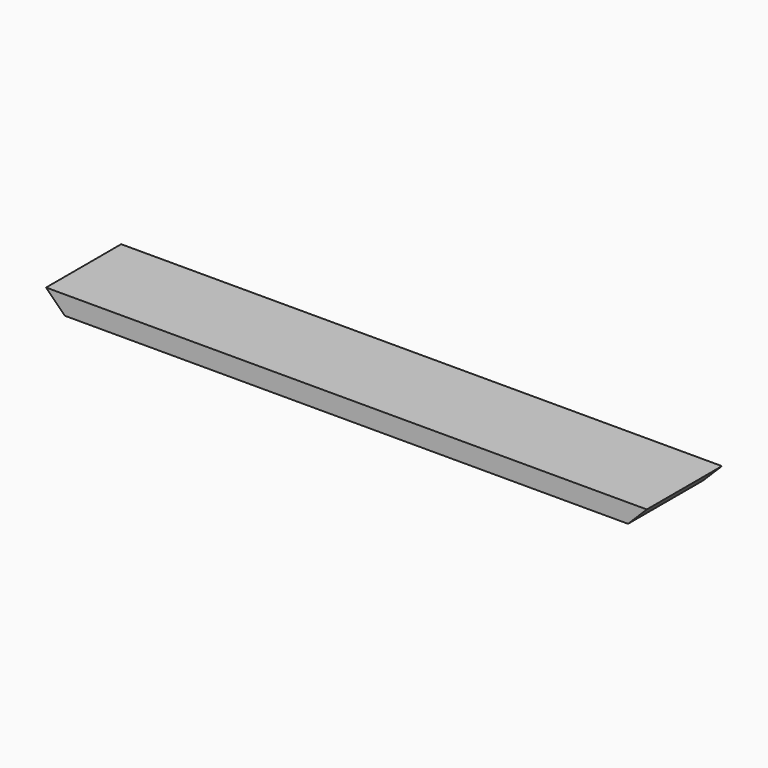
from build123d import *

# Parameters (mm, degrees)
F0_W     = 558.8
F0_H     = 87.3125
F1_DEPTH = 17.4625
F3_DEPTH = 87.3125


with BuildPart() as f1:
    # F0 (on Top) → F1 (new body)
    with BuildSketch(Plane.XY):
        with Locations((-279.4, 43.65625)):
            Rectangle(F0_W, F0_H)
    extrude(amount=F1_DEPTH)

    # F2 (on face) → F3 (cut)
    with BuildSketch(Plane(origin=(0, 87.3125, 0), x_dir=(-1, 0, 0), z_dir=(0, 1, 0))):
        Polygon((17.4625, 0), (0, 17.4625), (0, 0), align=None)
        Polygon((558.8, 0), (558.8, 17.4625), (541.3375, 0), align=None)
    extrude(amount=-F3_DEPTH, mode=Mode.SUBTRACT)


solid = f1.part
